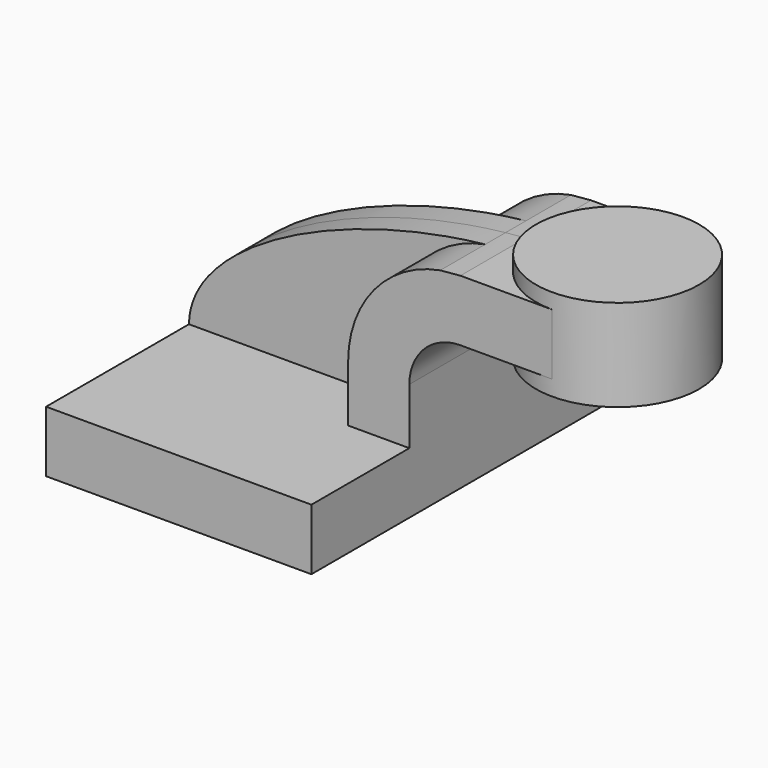
from build123d import *

# Parameters (mm, degrees)
F1_DEPTH = 63.5
F0_W     = 25.4
F0_H     = 19.05
F2_DEPTH = 25.4
F3_DEPTH = 7.9375


with BuildPart() as f1:
    # F0 (on Front) → F1 (new body, symmetric)
    with BuildSketch(Plane.XZ):
        Polygon((-90.502063, -9.525), (-7.952063, -9.525), (-7.952063, 9.525), (-27.002063, 9.525), (-90.502063, 9.525), align=None)
    extrude(amount=F1_DEPTH, both=True)

    # F0 (on Front) → F2 (join, symmetric)
    with BuildSketch(Plane.XZ):
        with BuildLine():
            Line((-27.002063, 9.525), (-7.952063, 9.525))
            Line((-7.952063, 9.525), (-7.952063, 27.0002))
            ThreePointArc((-7.952063, 27.0002), (-3.302383, 38.22552), (7.922937, 42.8752))
            Line((7.922937, 42.8752), (11.097937, 42.8752))
            Line((11.097937, 42.8752), (11.097937, 61.9252))
            Line((11.097937, 61.9252), (7.922937, 61.9252))
            add(Edge.make_bspline(
                [(1.660156, 61.359088), (3.749781, 61.58542), (5.838833, 61.774647), (7.922937, 61.9252)],
                knots=[106.639459, 106.639459, 106.639459, 106.639459, 111.504536, 111.504536, 111.504536, 111.504536], degree=3))
            ThreePointArc((1.660156, 61.359088), (-18.895743, 49.37237), (-27.002063, 27.0002))
            Line((-27.002063, 27.0002), (-27.002063, 9.525))
        make_face()
        with Locations((23.797937, 52.4002)):
            Rectangle(F0_W, F0_H)
    extrude(amount=F2_DEPTH, both=True)

    # F0 (on Front) → F3 (join, symmetric)
    with BuildSketch(Plane.XZ):
        with BuildLine():
            add(Edge.make_bspline(
                [(-90.502063, 9.525), (-90.221715, 33.60987), (-44.143125, 56.398042), (1.660156, 61.359088)],
                knots=[0, 0, 0, 0, 106.639459, 106.639459, 106.639459, 106.639459], degree=3))
            Line((-90.502063, 9.525), (-27.002063, 9.525))
            Line((-27.002063, 9.525), (-27.002063, 27.0002))
            ThreePointArc((-27.002063, 27.0002), (-18.895743, 49.37237), (1.660156, 61.359088))
        make_face()
    extrude(amount=F3_DEPTH, both=True)

    # F0 (on Front) → F4 (revolve)
    with BuildSketch(Plane.XZ):
        Polygon((36.497937, 61.9252), (36.497937, 42.8752), (36.497937, 38.1), (61.897937, 38.1), (61.897937, 66.675), (36.497937, 66.675), align=None)
    revolve(axis=Axis((36.497937, 0, 52.3875), (0, 0, -1)))


solid = f1.part
